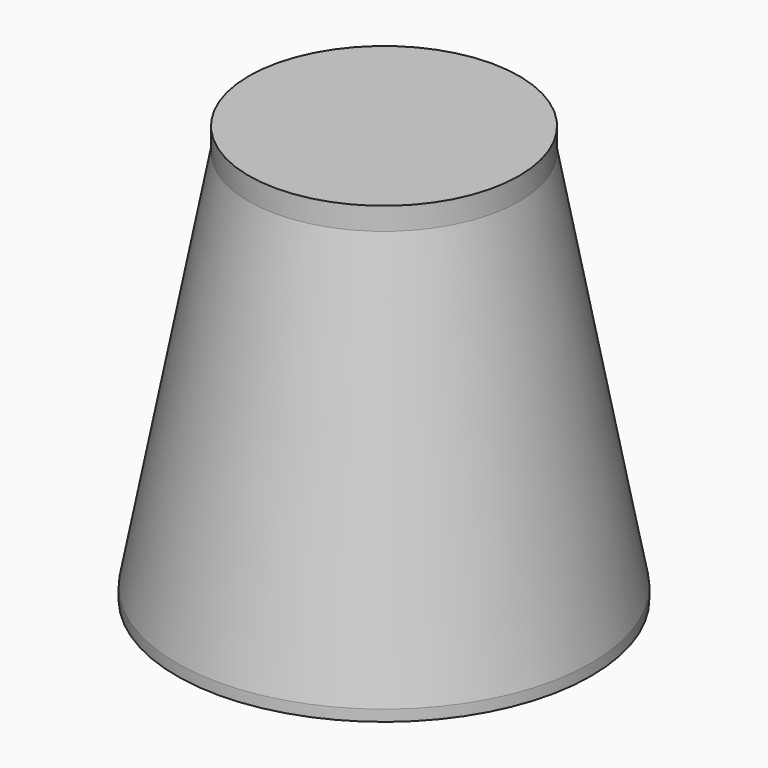
from build123d import *

# Parameters (mm, degrees)
F0_R      = 29.21
F1_DEPTH  = 1.5875
F3_R      = 19.05
F4_DEPTH  = 3.175
F1_FACE_R = 29.21
F4_FACE_R = 19.05


with BuildPart() as f1:
    # F0 (on Top) → F1 (new body)
    with BuildSketch(Plane.XY):
        Circle(F0_R)
    extrude(amount=F1_DEPTH)


with BuildPart() as f4:
    # F3 (on offset) → F4 (new body)
    with BuildSketch(Plane.XY.offset(55.5625)):
        Circle(F3_R)
    extrude(amount=F4_DEPTH)


with BuildPart() as f5:
    # F1_face (on face) → F5 section 0
    with BuildSketch(Plane.XY.offset(1.5875)):
        Circle(F1_FACE_R)
    # F4_face (on face) → F5 section 1
    with BuildSketch(Plane(origin=(0, 0, 55.5625), x_dir=(1, 0, 0), z_dir=(0, 0, -1))):
        Circle(F4_FACE_R)
    loft()


solid = Compound([f1.part, f4.part, f5.part])
